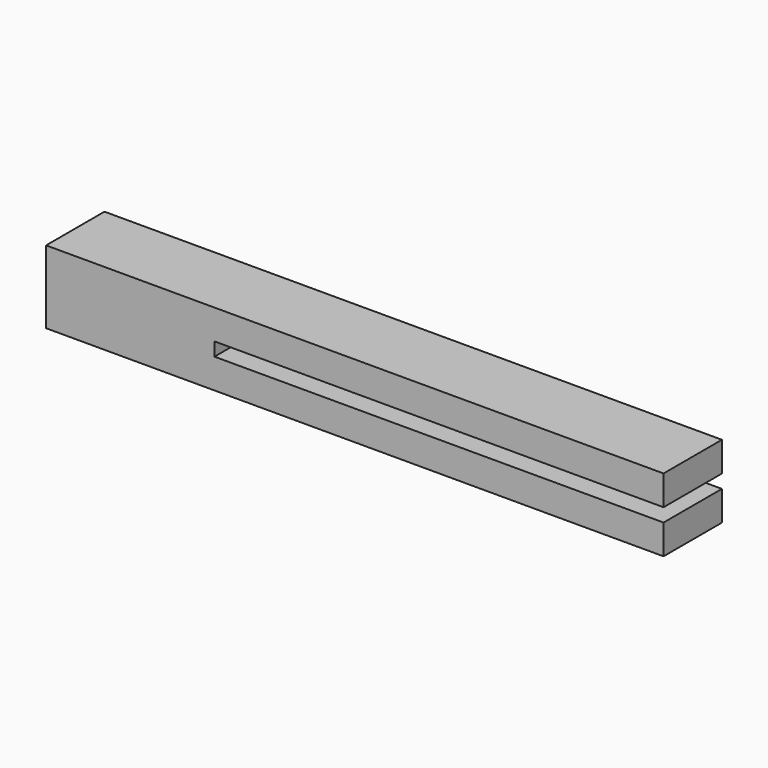
from build123d import *

# Parameters (mm, degrees)
F0_W     = 13
F0_H     = 13
F1_DEPTH = 110
F3_W     = 13
F3_H     = 2.4
F4_DEPTH = 80
F5_T     = -1.6


with BuildPart() as f1:
    # F0 (on Right) → F1 (new body)
    with BuildSketch(Plane.YZ):
        Rectangle(F0_W, F0_H)
    extrude(amount=F1_DEPTH)

    # F3 (on offset) → F4 (cut)
    with BuildSketch(Plane.YZ.offset(110)):
        Rectangle(F3_W, F3_H)
    extrude(amount=-F4_DEPTH, mode=Mode.SUBTRACT)

    # F5 (hollow: no face is removed)
    offset(amount=F5_T, kind=Kind.INTERSECTION, mode=Mode.SUBTRACT)


solid = f1.part
